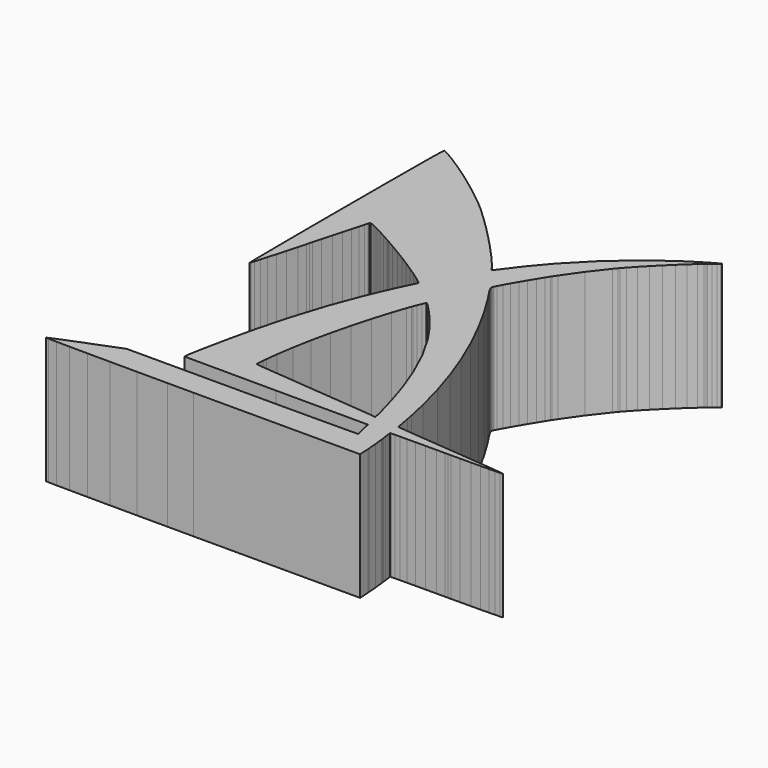
from build123d import *

# Parameters (mm, degrees)
F1_DEPTH = 45.72


with BuildPart() as f1:
    # F0 (on Top) → F1 (new body)
    with BuildSketch(Plane.XY):
        Polygon((-56.434863, 74.908791), (-57.891299, 75.776963), (-58.195845, 75.960097), (-59.116341, 76.495021), (-60.176029, 77.077697), (-60.957587, 77.469365), (-61.250957, 77.611097), (-61.347477, 77.611097), (-61.372369, 77.611097), (-61.445267, 77.032231), (-61.528071, 75.229847), (-61.595635, 72.109965), (-61.647959, 67.579113), (-61.687837, 61.541787), (-61.715523, 53.903499), (-61.732033, 44.568491), (-61.736097, 36.226115), (-61.736097, 33.443799), (-61.736097, 31.226379), (-61.730509, 24.574627), (-61.712729, 16.313277), (-61.685043, 8.842629), (-61.649229, 2.342769), (-61.606557, -3.009519), (-61.558297, -7.032371), (-61.507243, -9.545701), (-61.453649, -10.370947), (-61.409453, -10.326751), (-61.279913, -9.902571), (-60.903739, -8.687181), (-60.349765, -6.807581), (-59.641359, -4.342257), (-58.803667, -1.377823), (-57.857009, 2.006727), (-56.828817, 5.727065), (-56.010429, 8.708009), (-55.738903, 9.701403), (-55.468901, 10.696321), (-54.654323, 13.678281), (-53.634513, 17.404715), (-52.703095, 20.797393), (-51.885723, 23.774019), (-51.203987, 26.253059), (-50.679985, 28.151963), (-50.338101, 29.388181), (-50.218721, 29.819219), (-50.200687, 29.879925), (-50.185447, 29.921327), (-50.006123, 29.993209), (-49.554257, 29.922597), (-48.808513, 29.649801), (-47.731299, 29.157803), (-46.282737, 28.427553), (-44.426759, 27.439493), (-42.122471, 26.178637), (-40.030781, 25.014047), (-39.334821, 24.624157), (-38.551993, 24.183213), (-36.213415, 22.835235), (-33.017841, 20.943443), (-29.837253, 19.005931), (-26.762837, 17.079341), (-23.881207, 15.221585), (-21.282279, 13.486765), (-19.054191, 11.935079), (-17.719929, 10.958449), (-17.286097, 10.619359), (-16.440023, 9.948037), (-18.767425, 5.045075), (-20.051903, 2.371725), (-23.594695, -5.801487), (-27.878913, -17.166209), (-31.726759, -29.359225), (-34.432875, -39.337615), (-35.241865, -42.686097), (-35.420935, -43.424729), (-35.940619, -45.646213), (-36.684585, -48.952023), (-37.437187, -52.409471), (-38.157785, -55.827041), (-38.807009, -59.011693), (-39.345743, -61.774705), (-39.734363, -63.923037), (-39.899971, -64.926261), (-39.934007, -65.263878), (-40.040179, -66.498597), (-6.808851, -66.604718), (26.458291, -66.674975), (26.670635, -67.663035), (26.695527, -67.793972), (26.784935, -68.18945), (26.955877, -68.914315), (27.161109, -69.746622), (27.320875, -70.38053), (27.376247, -70.591375), (27.425777, -70.788454), (27.571827, -71.383754), (27.727529, -72.071382), (27.830907, -72.574379), (27.869515, -72.752153), (27.869515, -72.812758), (27.869515, -72.82241), (27.016329, -72.85134), (24.571579, -72.889948), (20.707731, -72.925762), (15.596743, -72.957461), (9.407779, -72.98502), (2.315337, -73.005696), (-5.510657, -73.019488), (-11.802745, -73.024975), (-13.898753, -73.024975), (-55.703089, -73.024975), (-66.568879, -77.294156), (-67.629964, -77.707541), (-70.807707, -78.967076), (-74.331347, -80.393337), (-76.769112, -81.415865), (-77.707541, -81.836184), (-77.751635, -81.880278), (-76.814604, -81.943626), (-73.909682, -82.002909), (-69.143067, -82.058027), (-62.617985, -82.10489), (-54.440709, -82.142076), (-44.713271, -82.172404), (-33.540065, -82.190336), (-24.155781, -82.197219), (-21.026247, -82.197219), (36.053649, -82.197219), (35.807015, -78.386915), (35.770947, -77.866037), (35.488753, -74.590427), (35.135947, -71.296936), (35.065335, -70.767778), (35.016059, -70.387413), (34.870009, -69.24642), (34.712529, -67.992396), (34.609405, -67.129762), (34.572321, -66.867913), (34.572321, -66.781096), (34.572321, -66.774187), (34.993707, -66.754934), (36.205287, -66.734258), (38.120701, -66.713583), (40.656129, -66.697022), (43.728005, -66.680486), (47.251493, -66.665348), (51.141757, -66.651556), (54.272815, -66.641904), (55.315993, -66.639135), (56.419877, -66.636392), (59.731021, -66.621254), (63.683515, -66.593669), (67.125469, -66.557855), (70.008369, -66.515132), (72.282431, -66.465501), (73.898887, -66.410408), (74.809731, -66.349753), (74.965179, -66.286355), (74.824971, -66.24226), (74.379709, -66.189911), (73.100819, -66.038324), (71.209027, -65.838502), (68.786121, -65.598726), (65.911603, -65.324507), (62.666499, -65.025473), (59.130057, -64.708405), (56.321579, -64.461771), (55.386097, -64.382015), (54.447821, -64.300735), (51.633755, -64.055371), (48.079787, -63.742443), (44.802679, -63.451867), (41.886759, -63.189993), (39.413307, -62.965203), (37.461825, -62.783339), (36.114355, -62.652529), (35.618293, -62.604269), (35.454209, -62.582171), (34.007171, -62.371351), (33.020635, -57.043955), (32.565975, -54.606063), (30.960441, -47.338107), (28.415107, -37.719635), (25.401397, -28.226385), (21.933027, -18.895441), (18.024729, -9.764903), (13.692251, -0.871093), (8.949055, 7.747381), (5.146929, 14.010513), (3.810381, 16.051403), (3.596513, 16.373729), (2.962529, 17.342485), (2.313813, 18.359755), (1.841119, 19.146393), (1.525397, 19.747357), (1.345057, 20.206081), (1.278763, 20.565999), (1.307719, 20.871815), (1.379347, 21.096351), (1.411097, 21.166709), (1.543431, 21.458809), (1.981581, 22.314535), (2.856865, 23.929721), (3.960749, 25.889331), (5.225669, 28.073477), (6.576187, 30.359731), (7.944485, 32.627697), (9.256141, 34.754185), (10.142347, 36.155503), (10.442829, 36.618799), (11.350879, 38.003607), (15.979775, 44.591859), (20.822031, 50.827559), (21.836253, 52.034821), (22.238843, 52.522501), (23.495635, 53.944647), (25.601041, 56.219725), (28.009977, 58.718069), (30.580203, 61.299471), (33.168209, 63.823977), (35.632009, 66.148585), (37.829871, 68.134357), (39.159815, 69.275325), (39.617269, 69.637529), (39.947977, 69.907785), (40.940101, 70.721093), (42.028999, 71.631937), (42.766107, 72.278113), (43.038903, 72.494521), (43.038903, 72.566149), (42.393997, 72.330437), (40.657653, 71.367269), (38.127559, 69.848603), (35.852481, 68.427981), (35.101403, 67.945635), (32.472249, 66.257297), (24.893143, 60.713747), (15.327757, 52.551457), (6.475349, 43.524043), (0.315849, 36.232719), (-1.587373, 33.690179), (-1.920875, 33.243647), (-2.924175, 31.905575), (-4.044569, 30.414849), (-4.827397, 29.379799), (-5.133213, 28.981527), (-5.151247, 28.963747), (-5.171821, 28.942919), (-5.419725, 29.065601), (-5.750687, 29.458285), (-5.820791, 29.563187), (-6.305931, 30.256353), (-7.894701, 32.239331), (-10.861675, 35.684079), (-14.481937, 39.651559), (-18.516473, 43.894629), (-22.729571, 48.167925), (-26.881201, 52.224813), (-30.731587, 55.818913), (-33.198181, 58.003059), (-34.042985, 58.701559), (-35.502469, 59.911615), (-39.967281, 63.434087), (-46.087157, 67.979925), (-52.146073, 72.156955), align=None)
        Polygon((-9.559671, -4.259453), (-8.995791, -2.716149), (-8.834501, -2.277745), (-8.326247, -0.974471), (-7.734935, 0.450469), (-7.289673, 1.412621), (-7.114921, 1.763903), (-7.055485, 1.763903), (-6.965823, 1.763903), (-6.694551, 1.522603), (-5.979287, 0.854329), (-4.990973, -0.151765), (-3.810381, -1.411097), (-2.517775, -2.834513), (-1.191895, -4.338193), (0.085471, -5.831713), (0.950849, -6.877685), (1.234821, -7.232015), (2.742057, -9.112885), (6.866763, -15.075535), (11.874627, -23.820501), (16.360013, -33.662747), (19.500469, -41.987597), (20.425029, -44.802679), (20.782153, -45.902245), (21.804757, -49.219485), (23.155275, -53.815107), (24.260429, -57.829323), (24.790781, -59.918473), (24.906859, -60.501403), (25.117425, -61.771911), (23.776559, -61.559821), (23.604347, -61.536199), (23.087457, -61.483875), (21.662771, -61.344683), (19.586321, -61.149103), (16.945737, -60.906533), (13.827125, -60.622561), (10.317353, -60.308363), (6.503035, -59.970797), (3.476625, -59.706129), (2.469515, -59.619515), (1.458087, -59.528583), (-1.576451, -59.254263), (-5.422519, -58.908315), (-8.983345, -58.587259), (-12.166473, -58.300747), (-14.886813, -58.053859), (-17.051909, -57.857009), (-18.575909, -57.717817), (-19.170015, -57.662699), (-19.366865, -57.643395), (-21.272881, -57.396761), (-21.060537, -54.716553), (-20.954365, -53.334285), (-20.476337, -49.201451), (-19.543141, -43.043221), (-18.304637, -36.424235), (-16.800957, -29.522801), (-15.077059, -22.521291), (-13.172821, -15.598013), (-11.131931, -8.936609), align=None, mode=Mode.SUBTRACT)
    extrude(amount=F1_DEPTH)


solid = f1.part
